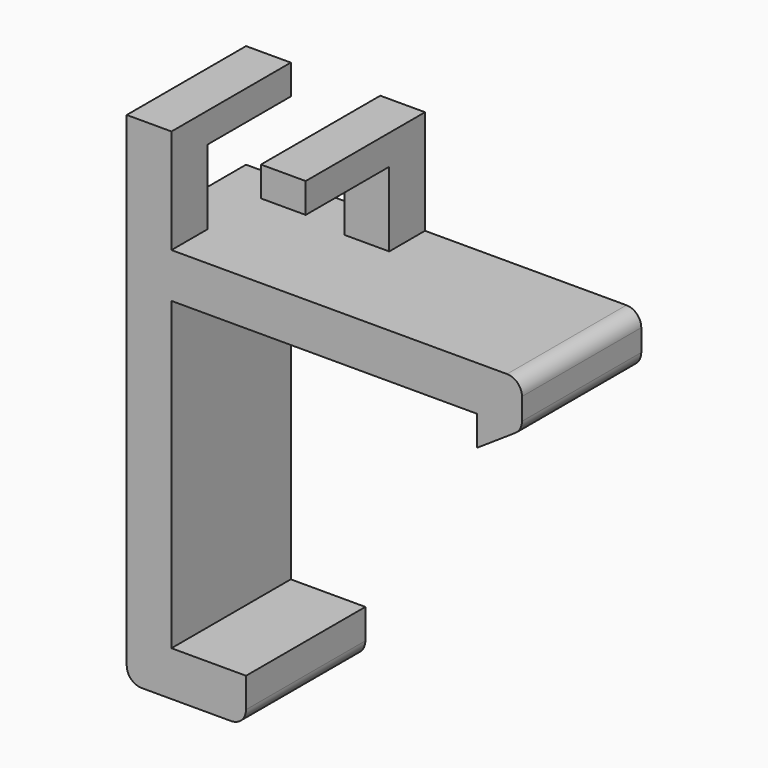
from build123d import *

# Parameters (mm, degrees)
F1_DEPTH = 10
F2_R     = 1
F3_W     = 7
F3_H     = 5
F4_DEPTH = 3
F5_W     = 7
F5_H     = 5
F6_DEPTH = 3


with BuildPart() as f1:
    # F0 (on Front) → F1 (new body)
    with BuildSketch(Plane.XZ):
        Polygon((5, -3), (5, 0), (0, 0), (0, 20.5), (20.5, 20.5), (20.5, 18.5), (23.5, 20.5), (23.5, 23.5), (9, 23.5), (9, 30.5), (6, 30.5), (6, 23.5), (0, 23.5), (0, 30.5), (-3, 30.5), (-3, 23.5), (-3, -3), align=None)
    extrude(amount=F1_DEPTH)

    # F2
    f2_edges = [f1.edges().sort_by_distance(p)[0] for p in [
        (23.5, -5, 23.5),
        (-3, -5, -3),
        (23.5, -5, 20.5),
        (5, -5, -3),
    ]]
    fillet(f2_edges, radius=F2_R)

    # F3 (on face) → F4 (cut, through all)
    with BuildSketch(Plane(origin=(-3, 0, 0), x_dir=(0, -1, 0), z_dir=(-1, 0, 0))):
        with Locations((3.5, 26)):
            Rectangle(F3_W, F3_H)
    extrude(amount=-F4_DEPTH, mode=Mode.SUBTRACT)

    # F5 (on face) → F6 (cut, through all)
    with BuildSketch(Plane.YZ.offset(9)):
        with Locations((-6.5, 26)):
            Rectangle(F5_W, F5_H)
    extrude(amount=-F6_DEPTH, mode=Mode.SUBTRACT)


solid = f1.part
